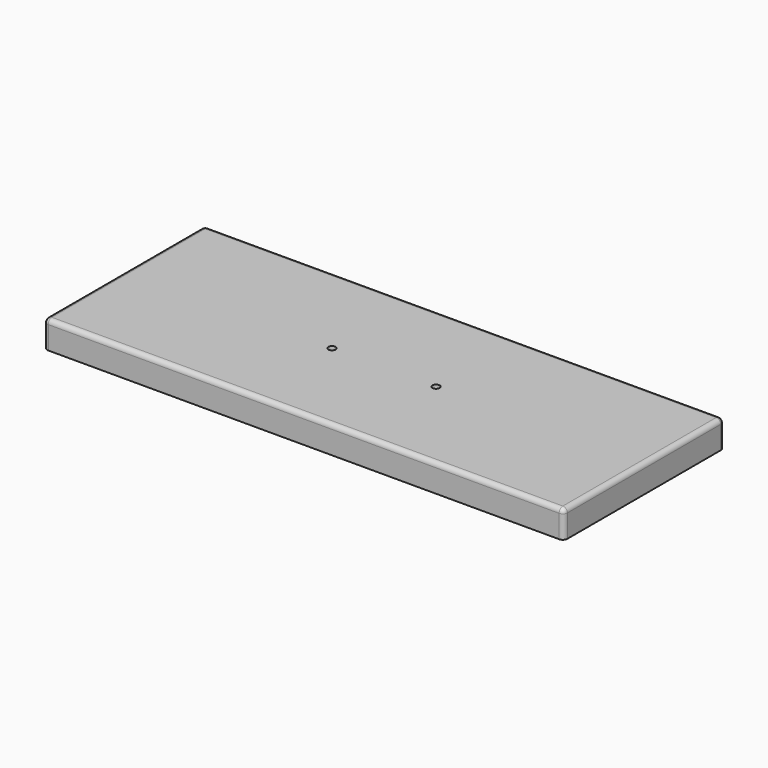
from build123d import *

# Parameters (mm, degrees)
F1_DEPTH = 30
F2_R     = 5
F3_R     = 10
F3_R_2   = 4
F4_DEPTH = 20
F5_DEPTH = 30.001


with BuildPart() as f1:
    # F0 (on Top) → F1 (new body)
    with BuildSketch(Plane.XY):
        with BuildLine():
            Line((-285, 105), (-285, 0))
            Line((-285, 0), (-285, -105))
            ThreePointArc((-285, -105), (-283.5355339059, -108.5355339059), (-280, -110))
            Line((-280, -110), (0, -110))
            Line((0, -110), (280, -110))
            ThreePointArc((280, -110), (283.5355339059, -108.5355339059), (285, -105))
            Line((285, -105), (285, 0))
            Line((285, 0), (285, 105))
            ThreePointArc((285, 105), (283.5355339059, 108.5355339059), (280, 110))
            Line((280, 110), (0, 110))
            Line((0, 110), (-280, 110))
            ThreePointArc((-280, 110), (-283.5355339059, 108.5355339059), (-285, 105))
        make_face()
    extrude(amount=F1_DEPTH)

    # F2
    f2_edges = [f1.edges().sort_by_distance(p)[0] for p in [
        (-285, 0, 30),
        (-283.535534, -108.535534, 30),
        (0, -110, 30),
        (283.535534, -108.535534, 30),
        (285, 0, 30),
        (283.535534, 108.535534, 30),
        (0, 110, 30),
        (-283.535534, 108.535534, 30),
    ]]
    fillet(f2_edges, radius=F2_R)

    # F3 (on face) → F4 (cut)
    with BuildSketch(Plane(origin=(0, 0, 0), x_dir=(1, 0, 0), z_dir=(0, 0, -1))):
        with Locations((57, 0)):
            Circle(F3_R)
        with Locations((57, 0)):
            Circle(F3_R_2, mode=Mode.SUBTRACT)
        with Locations((-57, 0)):
            Circle(F3_R)
        with Locations((-57, 0)):
            Circle(F3_R_2, mode=Mode.SUBTRACT)
    extrude(amount=-F4_DEPTH, mode=Mode.SUBTRACT)

    # F5 (cut, through all): faces of the model
    f5_faces = [f1.faces().sort_by_distance(p)[0] for p in [
        (57, 0, 0),
        (-57, 0, 0),
    ]]
    extrude(f5_faces, amount=-F5_DEPTH, mode=Mode.SUBTRACT)


solid = f1.part
